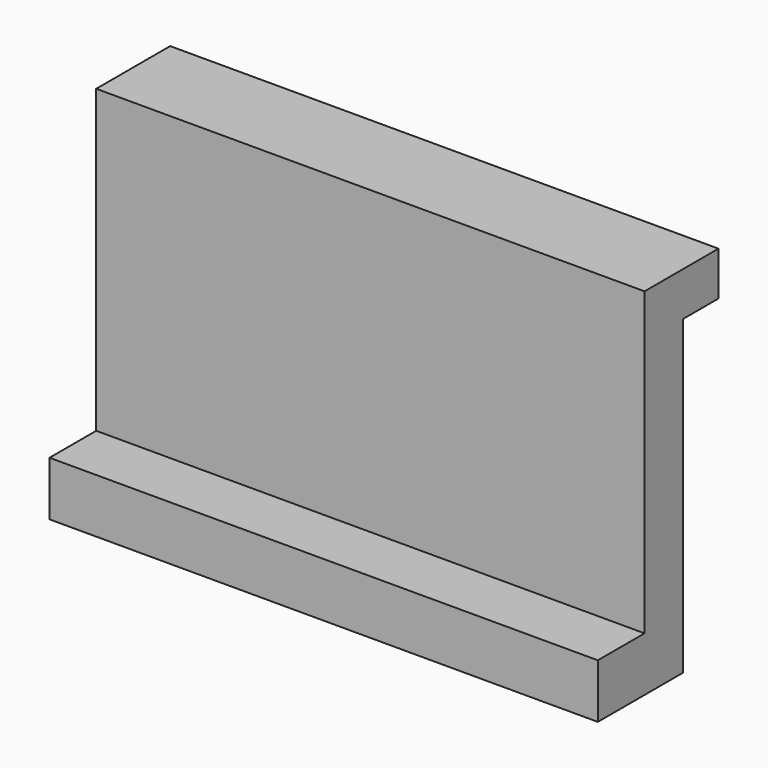
from build123d import *

# Parameters (mm, degrees)
F0_W     = 185.6282874942
F0_H     = 120.2967502177
F1_DEPTH = 51.054
F2_W     = 19.7645789781
F2_H     = 101.9291467965
F3_DEPTH = 220.218
F4_W     = 15.0644443929
F4_H     = 105.4227072746
F5_DEPTH = 191.262


with BuildPart() as f1:
    # F0 (on Front) → F1 (new body)
    with BuildSketch(Plane.XZ):
        with Locations((20.1111845672, -23.0586882681)):
            Rectangle(F0_W, F0_H)
    extrude(amount=F1_DEPTH)

    # F2 (on face) → F3 (cut)
    with BuildSketch(Plane.YZ.offset(112.9253283143)):
        with Locations((-41.171710511, -13.8748865575)):
            Rectangle(F2_W, F2_H)
    extrude(amount=-F3_DEPTH, mode=Mode.SUBTRACT)

    # F4 (on face) → F5 (cut)
    with BuildSketch(Plane.YZ.offset(112.9253283143)):
        with Locations((-7.5322221965, -30.4957097396)):
            Rectangle(F4_W, F4_H)
    extrude(amount=-F5_DEPTH, mode=Mode.SUBTRACT)


solid = f1.part
